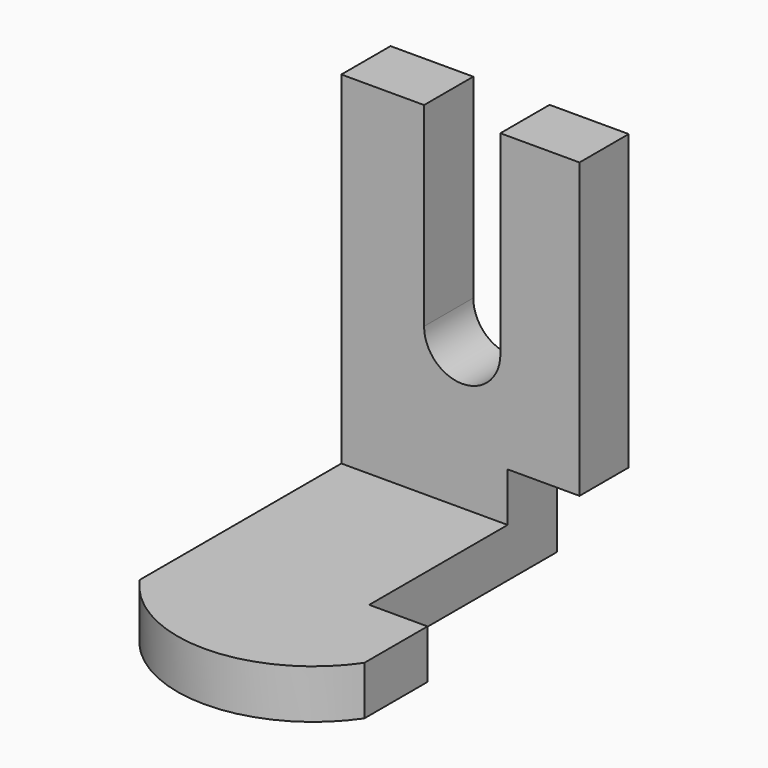
from build123d import *

# Parameters (mm, degrees)
F1_DEPTH = 12.7
F2_W     = 43.1732637808
F2_H     = 15.9647427499
F3_DEPTH = 12.7
F4_W     = 61.8251115084
F4_H     = 15.9647427499
F5_DEPTH = 76.2
F7_DEPTH = 25.4


with BuildPart() as f1:
    # F0 (on Top) → F1 (new body)
    with BuildSketch(Plane.XY):
        with BuildLine():
            Line((13.5834803805, 41.8586246669), (-29.5897834003, 41.8586246669))
            Line((-29.5897834003, 41.8586246669), (-29.5897834003, -19.0352704376))
            Line((-29.5897834003, -19.0352704376), (-29.5897834003, -39.5325236022))
            ThreePointArc((-29.5897834003, -39.5325236022), (-0.4357211292, -54.9443437525), (28.7183411419, -39.5325236022))
            Line((28.7183411419, -39.5325236022), (28.7183411419, -19.0352704376))
            Line((28.7183411419, -19.0352704376), (13.5834803805, -19.0352704376))
            Line((13.5834803805, -19.0352704376), (13.5834803805, 41.8586246669))
        make_face()
    extrude(amount=F1_DEPTH)

    # F2 (on face) → F3 (join)
    with BuildSketch(Plane.XY.offset(12.7)):
        with Locations((-8.0031515099, 33.876253292)):
            Rectangle(F2_W, F2_H)
    extrude(amount=F3_DEPTH)

    # F4 (on face) → F5 (join)
    with BuildSketch(Plane.XY.offset(25.4)):
        with Locations((1.3227723539, 33.876253292)):
            Rectangle(F4_W, F4_H)
    extrude(amount=F5_DEPTH)

    # F6 (on face) → F7 (cut)
    with BuildSketch(Plane.XZ.offset(-25.893881917)):
        with BuildLine():
            Line((11.6920806468, 101.6), (-8.112533018, 101.6))
            Line((-8.112533018, 101.6), (-8.112533018, 51.0209538043))
            ThreePointArc((-8.112533018, 51.0209538043), (1.7897738144, 41.1186469719), (11.6920806468, 51.0209538043))
            Line((11.6920806468, 51.0209538043), (11.6920806468, 101.6))
        make_face()
    extrude(amount=-F7_DEPTH, mode=Mode.SUBTRACT)


solid = f1.part
